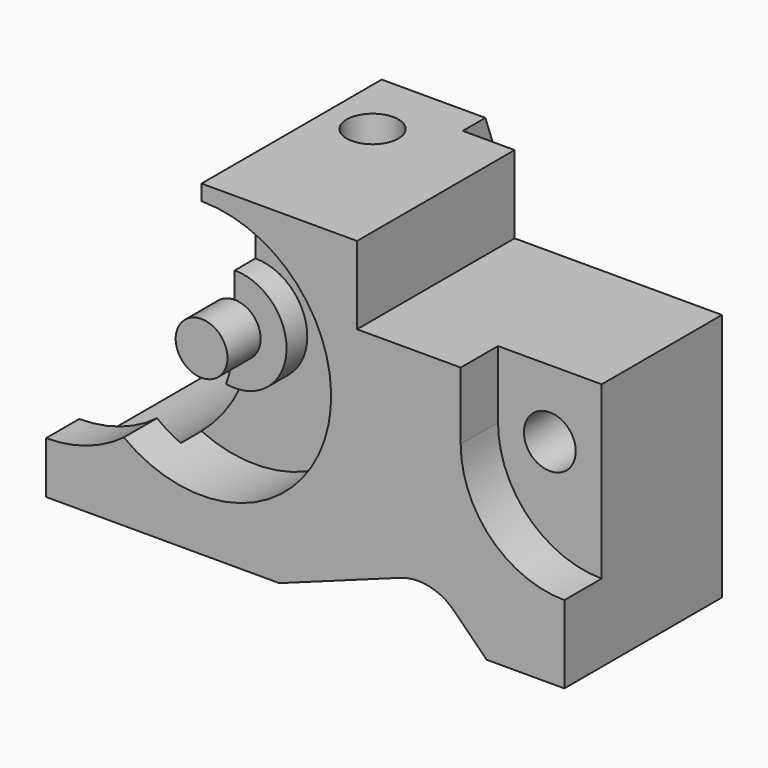
from build123d import *

# Parameters (mm, degrees)
F0_W      = 100
F0_H      = 63
F1_DEPTH  = 50
F2_W      = 40
F2_H      = 15
F3_DEPTH  = 50.001
F5_DEPTH  = 9
F6_R      = 5
F7_DEPTH  = 41.001
F8_W      = 50
F8_H      = 63
F9_DEPTH  = 12
F11_DEPTH = 50.001
F12_R     = 25
F13_DEPTH = 13
F14_R     = 10
F15_DEPTH = 5
F16_R     = 5
F17_DEPTH = 8
F19_DEPTH = 42
F21_DEPTH = 8
F23_DEPTH = 70.001
F24_R     = 5
F25_DEPTH = 63.001


with BuildPart() as f1:
    # F0 (on Front) → F1 (new body)
    with BuildSketch(Plane.XZ):
        Rectangle(F0_W, F0_H)
    extrude(amount=F1_DEPTH)

    # F2 (on face) → F3 (cut, through all)
    with BuildSketch(Plane.XZ.offset(50)):
        with Locations((30, 24)):
            Rectangle(F2_W, F2_H)
    extrude(amount=-F3_DEPTH, mode=Mode.SUBTRACT)

    # F4 (on face) → F5 (cut)
    with BuildSketch(Plane.XZ.offset(50)):
        with BuildLine():
            Line((30, 16.5), (30, 3.5))
            ThreePointArc((30, 3.5), (35.857864, -10.642136), (50, -16.5))
            Line((50, -16.5), (50, 16.5))
            Line((50, 16.5), (30, 16.5))
        make_face()
    extrude(amount=-F5_DEPTH, mode=Mode.SUBTRACT)

    # F6 (on face) → F7 (cut, through all)
    with BuildSketch(Plane.XZ.offset(41)):
        with Locations((40, 3.5)):
            Circle(F6_R)
    extrude(amount=-F7_DEPTH, mode=Mode.SUBTRACT)

    # F8 (on face) → F9 (cut)
    with BuildSketch(Plane(origin=(0, 0, 0), x_dir=(-1, 0, 0), z_dir=(0, 1, 0))):
        with Locations((-25, 0)):
            Rectangle(F8_W, F8_H)
    extrude(amount=-F9_DEPTH, mode=Mode.SUBTRACT)

    # F10 (on face) → F11 (cut, through all)
    with BuildSketch(Plane.XZ.offset(50)):
        with BuildLine():
            Line((-5, -31.5), (35, -31.5))
            Line((35, -31.5), (28.83092, -25.33092))
            ThreePointArc((28.83092, -25.33092), (23.924249, -22.639028), (18.339651, -23.005062))
            Line((18.339651, -23.005062), (-5, -31.5))
        make_face()
    extrude(amount=-F11_DEPTH, mode=Mode.SUBTRACT)

    # F12 (on face) → F13 (cut)
    with BuildSketch(Plane.XZ.offset(50)):
        with Locations((-20, 3.5)):
            Circle(F12_R)
    extrude(amount=-F13_DEPTH, mode=Mode.SUBTRACT)

    # F14 (on face) → F15 (join)
    with BuildSketch(Plane.XZ.offset(37)):
        with Locations((-20, 3.5)):
            Circle(F14_R)
    extrude(amount=F15_DEPTH)

    # F16 (on face) → F17 (join)
    with BuildSketch(Plane.XZ.offset(42)):
        with Locations((-20, 3.5)):
            Circle(F16_R)
    extrude(amount=F17_DEPTH)

    # F18 (on face) → F19 (cut)
    with BuildSketch(Plane(origin=(0, 0, 0), x_dir=(-1, 0, 0), z_dir=(0, 1, 0))):
        with BuildLine():
            Line((20, 31.5), (20, 3.5))
            ThreePointArc((20, 3.5), (28.786797, -17.713203), (50, -26.5))
            Line((50, -26.5), (50, 31.5))
            Line((50, 31.5), (20, 31.5))
        make_face()
    extrude(amount=-F19_DEPTH, mode=Mode.SUBTRACT)

    # F20 (on face) → F21 (cut)
    with BuildSketch(Plane.XZ.offset(50)):
        with BuildLine():
            Line((-50, 31.5), (-50, -21.5))
            ThreePointArc((-50, -21.5), (-32.32233, -14.17767), (-25, 3.5))
            Line((-25, 3.5), (-25, 26.191952))
            Line((-25, 26.191952), (-20, 26.191952))
            Line((-20, 26.191952), (-20, 31.5))
            Line((-20, 31.5), (-25, 31.5))
            Line((-25, 31.5), (-50, 31.5))
        make_face()
    extrude(amount=-F21_DEPTH, mode=Mode.SUBTRACT)

    # F22 (on face) → F23 (cut, through all)
    with BuildSketch(Plane(origin=(-20, 0, 0), x_dir=(0, -1, 0), z_dir=(-1, 0, 0))):
        Polygon((6.551464, 31.5), (0, 31.5), (0, 13.5), align=None)
    extrude(amount=-F23_DEPTH, mode=Mode.SUBTRACT)

    # F24 (on face) → F25 (cut, through all)
    with BuildSketch(Plane.XY.offset(31.5)):
        with Locations((-11, -20)):
            Circle(F24_R)
    extrude(amount=-F25_DEPTH, mode=Mode.SUBTRACT)


solid = f1.part
